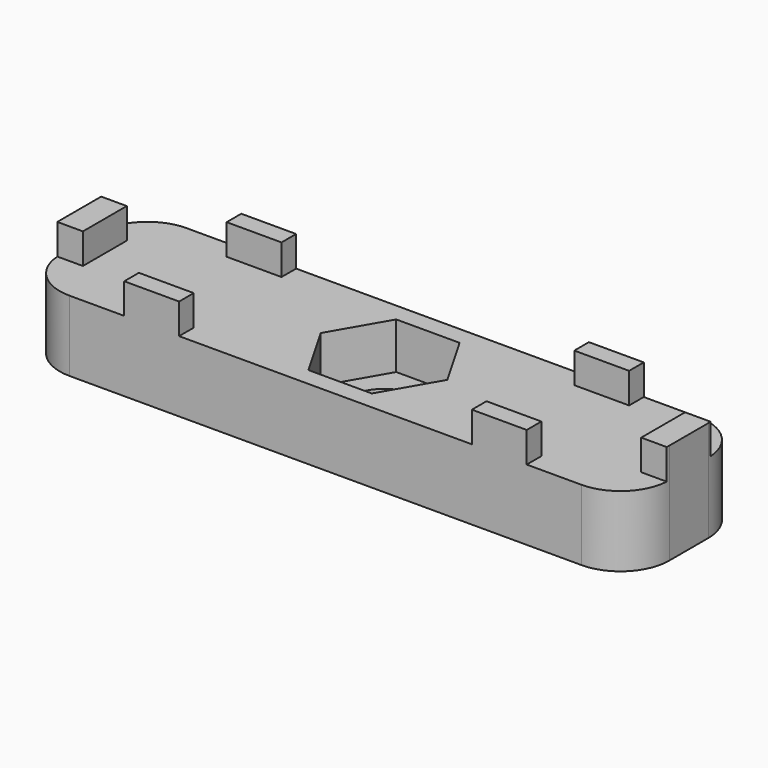
from build123d import *

# Parameters (mm, degrees)
F0_W     = 63.5
F0_H     = 15.24
F1_DEPTH = 4.826
F2_W     = 2.667
F2_H     = 5.715
F2_W_2   = 5.715
F2_H_2   = 1.905
F3_DEPTH = 3.175
F4_W     = 63.5
F4_H     = 15.24
F5_DEPTH = 2.54
F7_D     = 7.1374
F8_R     = 5.08


with BuildPart() as f1:
    # F0 (on Top) → F1 (new body)
    with BuildSketch(Plane.XY):
        Rectangle(F0_W, F0_H)
        Polygon((-3.2995567884, -5.715), (-6.5991135768, 0), (-3.2995567884, 5.715), (3.2995567884, 5.715), (6.5991135768, 0), (3.2995567884, -5.715), align=None, mode=Mode.SUBTRACT)
    extrude(amount=F1_DEPTH)

    # F2 (on face) → F3 (join)
    with BuildSketch(Plane.XY.offset(4.826)):
        with Locations((-30.4165, 0)):
            Rectangle(F2_W, F2_H)
        with Locations((-18.1081227605, -6.6675)):
            Rectangle(F2_W_2, F2_H_2)
        with Locations((18.1081227605, -6.6675)):
            Rectangle(F2_W_2, F2_H_2)
        with Locations((-18.1081227605, 6.6675)):
            Rectangle(F2_W_2, F2_H_2)
        with Locations((18.1081227605, 6.6675)):
            Rectangle(F2_W_2, F2_H_2)
        with Locations((30.4165, 0)):
            Rectangle(F2_W, F2_H)
    extrude(amount=F3_DEPTH)

    # F4 (on face) → F5 (join)
    with BuildSketch(Plane(origin=(0, 0, 0), x_dir=(1, 0, 0), z_dir=(0, 0, -1))):
        Rectangle(F4_W, F4_H)
    extrude(amount=F5_DEPTH)

    # F7 (through all)
    with Locations(Plane(origin=(0, 0, -2.54), x_dir=(1, 0, 0), z_dir=(0, 0, -1))):
        with Locations((0, 0)):
            Hole(F7_D / 2)

    # F8
    f8_edges = [f1.edges().sort_by_distance(p)[0] for p in [
        (31.75, -7.62, 1.143),
        (31.75, 7.62, 1.143),
        (-31.75, 7.62, 1.143),
        (-31.75, -7.62, 1.143),
    ]]
    fillet(f8_edges, radius=F8_R)


solid = f1.part
